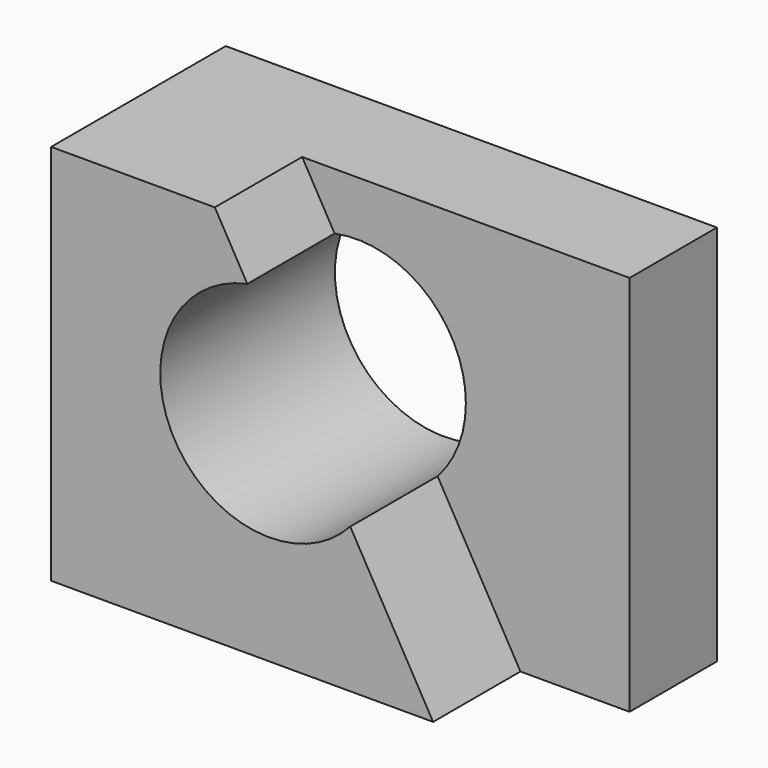
from build123d import *

# Parameters (mm, degrees)
F0_W     = 57.15
F0_H     = 44.45
F1_DEPTH = 25.4
F2_R     = 12.7
F3_DEPTH = 25.401
F5_DEPTH = 12.7


with BuildPart() as f1:
    # F0 (on Front) → F1 (new body)
    with BuildSketch(Plane.XZ):
        with Locations((-28.575, 22.225)):
            Rectangle(F0_W, F0_H)
    extrude(amount=F1_DEPTH)

    # F2 (on face) → F3 (cut, through all)
    with BuildSketch(Plane.XZ.offset(25.4)):
        with Locations((-31.75, 25.4)):
            Circle(F2_R)
    extrude(amount=-F3_DEPTH, mode=Mode.SUBTRACT)

    # F4 (on face) → F5 (cut)
    with BuildSketch(Plane.XZ.offset(25.4)):
        with BuildLine():
            Line((0, 44.45), (-38.1, 44.45))
            Line((-38.1, 44.45), (-34.3211481047, 37.8370091832))
            ThreePointArc((-34.3211481047, 37.8370091832), (-23.7301365638, 35.2474255755), (-19.05, 25.4))
            ThreePointArc((-19.05, 25.4), (-19.9011173002, 20.8290068075), (-22.3403903568, 16.8706831245))
            Line((-22.3403903568, 16.8706831245), (-12.7, 0))
            Line((-12.7, 0), (0, 0))
            Line((0, 0), (0, 44.45))
        make_face()
    extrude(amount=-F5_DEPTH, mode=Mode.SUBTRACT)


solid = f1.part
